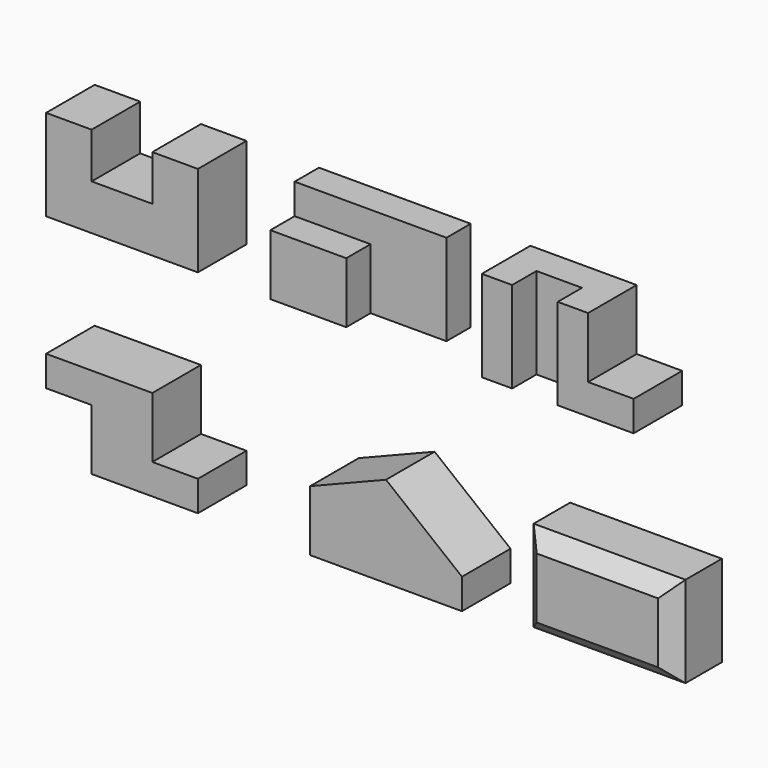
from build123d import *

# Parameters (mm, degrees)
F1_DEPTH  = 101.6
F2_W      = 254
F2_H      = 152.4
F3_DEPTH  = 101.6
F4_W      = 127
F4_H      = 50.8
F5_DEPTH  = 152.4
F6_W      = 127
F6_H      = 50.8
F7_DEPTH  = 50.8
F8_W      = 254
F8_H      = 152.4
F9_DEPTH  = 101.6
F10_W     = 76.2
F10_H     = 101.6
F11_DEPTH = 101.6
F12_W     = 76.2
F12_H     = 50.8
F13_DEPTH = 152.4
F14_W     = 254
F14_H     = 152.4
F15_DEPTH = 101.6
F16_W     = 76.2
F16_H     = 101.6
F17_DEPTH = 101.6
F18_W     = 76.2
F18_H     = 101.6
F19_DEPTH = 101.6
F20_W     = 254
F20_H     = 152.4
F21_DEPTH = 101.6
F23_DEPTH = 101.6
F25_DEPTH = 101.6
F26_W     = 254
F26_H     = 152.4
F27_DEPTH = 101.6
F28_SIZE  = 25.4


with BuildPart() as f1:
    # F0 (on Front) → F1 (new body)
    with BuildSketch(Plane.XZ):
        Polygon((0, 152.4), (0, 0), (254, 0), (254, 152.4), (177.8, 152.4), (177.8, 76.2), (76.2, 76.2), (76.2, 152.4), align=None)
    extrude(amount=-F1_DEPTH)


with BuildPart() as f3:
    # F2 (on Front) → F3 (new body)
    with BuildSketch(Plane.XZ):
        with Locations((502.219941, 76.2)):
            Rectangle(F2_W, F2_H)
    extrude(amount=-F3_DEPTH)

    # F4 (on face) → F5 (cut)
    with BuildSketch(Plane.XY.offset(152.4)):
        with Locations((565.719941, 25.4)):
            Rectangle(F4_W, F4_H)
    extrude(amount=-F5_DEPTH, mode=Mode.SUBTRACT)

    # F6 (on face) → F7 (cut)
    with BuildSketch(Plane.XZ):
        with Locations((438.719941, 127)):
            Rectangle(F6_W, F6_H)
    extrude(amount=-F7_DEPTH, mode=Mode.SUBTRACT)


with BuildPart() as f9:
    # F8 (on Front) → F9 (new body)
    with BuildSketch(Plane.XZ):
        with Locations((856.021728, 76.2)):
            Rectangle(F8_W, F8_H)
    extrude(amount=-F9_DEPTH)

    # F10 (on face) → F11 (cut)
    with BuildSketch(Plane.XZ):
        with Locations((944.921728, 101.6)):
            Rectangle(F10_W, F10_H)
    extrude(amount=-F11_DEPTH, mode=Mode.SUBTRACT)

    # F12 (on face) → F13 (cut)
    with BuildSketch(Plane.XY.offset(152.4)):
        with Locations((817.921728, 25.4)):
            Rectangle(F12_W, F12_H)
    extrude(amount=-F13_DEPTH, mode=Mode.SUBTRACT)


with BuildPart() as f15:
    # F14 (on Front) → F15 (new body)
    with BuildSketch(Plane.XZ):
        with Locations((127, -278.608005)):
            Rectangle(F14_W, F14_H)
    extrude(amount=-F15_DEPTH)

    # F16 (on face) → F17 (cut)
    with BuildSketch(Plane.XZ):
        with Locations((38.1, -304.008005)):
            Rectangle(F16_W, F16_H)
    extrude(amount=-F17_DEPTH, mode=Mode.SUBTRACT)

    # F18 (on face) → F19 (cut)
    with BuildSketch(Plane.XZ):
        with Locations((215.9, -253.208005)):
            Rectangle(F18_W, F18_H)
    extrude(amount=-F19_DEPTH, mode=Mode.SUBTRACT)


with BuildPart() as f21:
    # F20 (on Front) → F21 (new body)
    with BuildSketch(Plane.XZ):
        with Locations((568.767503, -279.210531)):
            Rectangle(F20_W, F20_H)
    extrude(amount=-F21_DEPTH)

    # F22 (on face) → F23 (cut)
    with BuildSketch(Plane.XZ):
        Polygon((441.767503, -203.010531), (441.767503, -253.810531), (568.767503, -203.010531), align=None)
    extrude(amount=-F23_DEPTH, mode=Mode.SUBTRACT)

    # F24 (on face) → F25 (cut)
    with BuildSketch(Plane.XZ):
        Polygon((568.767503, -203.010531), (695.767503, -304.610531), (695.767503, -203.010531), align=None)
    extrude(amount=-F25_DEPTH, mode=Mode.SUBTRACT)


with BuildPart() as f27:
    # F26 (on Front) → F27 (new body)
    with BuildSketch(Plane.XZ):
        with Locations((922.458179, -280.516855)):
            Rectangle(F26_W, F26_H)
    extrude(amount=-F27_DEPTH)

    # F28
    f28_edges = [f27.edges().sort_by_distance(p)[0] for p in [
        (922.458179, 0, -204.316855),
        (1049.458179, 0, -280.516855),
        (922.458179, 0, -356.716855),
        (795.458179, 0, -280.516855),
    ]]
    chamfer(f28_edges, length=F28_SIZE)


solid = Compound([f1.part, f3.part, f9.part, f15.part, f21.part, f27.part])
